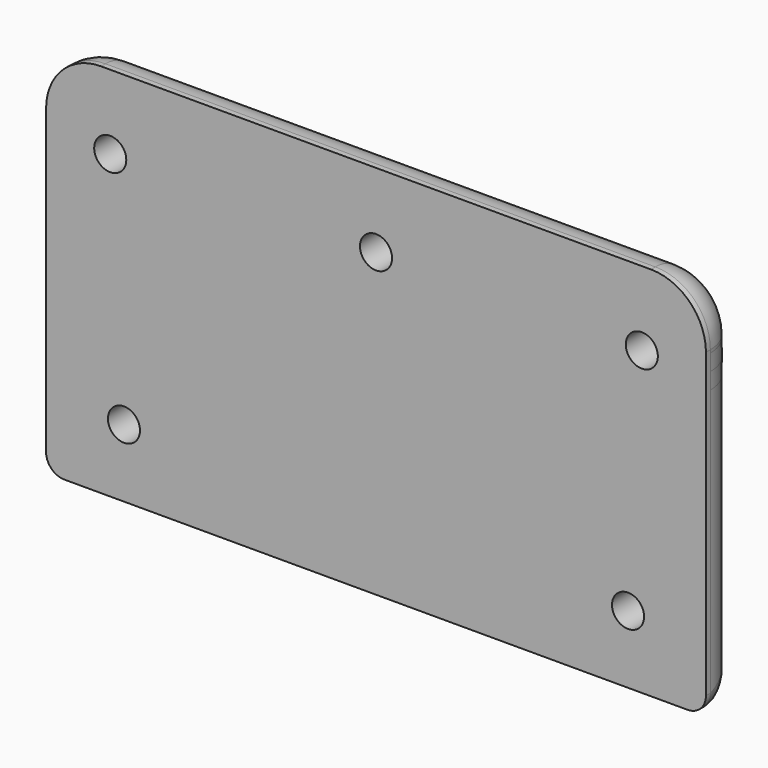
from build123d import *

# Parameters (mm, degrees)
SKETCH032_R  = 1.75
PAD005_DEPTH = 5
CHAMFER_SIZE = 1.4
FILLET002_R  = 4.4


with BuildPart() as part:
    # Sketch032 → Pad005 (new body)
    with BuildSketch(Plane.XZ):
        with BuildLine():
            Line((-30, 17), (30, 17))
            ThreePointArc((36, 11), (34.242641, 15.242641), (30, 17))
            Line((36, 11), (36, -22))
            ThreePointArc((34, -24), (35.414214, -23.414214), (36, -22))
            Line((34, -24), (-34, -24))
            ThreePointArc((-36, -22), (-35.414214, -23.414214), (-34, -24))
            Line((-36, -22), (-36, 11))
            ThreePointArc((-30, 17), (-34.242641, 15.242641), (-36, 11))
        make_face()
        with Locations((-29, 8.9)):
            Circle(SKETCH032_R, mode=Mode.SUBTRACT)
        with Locations((0, 8.9)):
            Circle(SKETCH032_R, mode=Mode.SUBTRACT)
        with Locations((29, 8.9)):
            Circle(SKETCH032_R, mode=Mode.SUBTRACT)
        with Locations((-27.5, -16.6)):
            Circle(SKETCH032_R, mode=Mode.SUBTRACT)
        with Locations((27.5, -16.6)):
            Circle(SKETCH032_R, mode=Mode.SUBTRACT)
    extrude(amount=PAD005_DEPTH)

    # Chamfer
    chamfer_edges = [part.edges().sort_by_distance(p)[0] for p in [
        (25.75, 0, -16.6),
        (-30.75, 0, 8.9),
        (-1.75, 0, 8.9),
        (27.25, 0, 8.9),
        (-29.25, 0, -16.6),
    ]]
    chamfer(chamfer_edges, length=CHAMFER_SIZE)

    # Fillet002
    fillet002_edges = [part.edges().sort_by_distance(p)[0] for p in [
        (36, 0, -5.5),
        (34.242641, 0, 15.242641),
        (0, 0, 17),
        (-34.242641, 0, 15.242641),
        (-36, 0, -5.5),
        (-35.414214, 0, -23.414214),
        (0, 0, -24),
        (35.414214, 0, -23.414214),
    ]]
    fillet(fillet002_edges, radius=FILLET002_R)


with BuildPart() as part_1:
    # Body placement: moved
    add(part.part.moved(Location((0, 46, 0))))


solid = part_1.part
